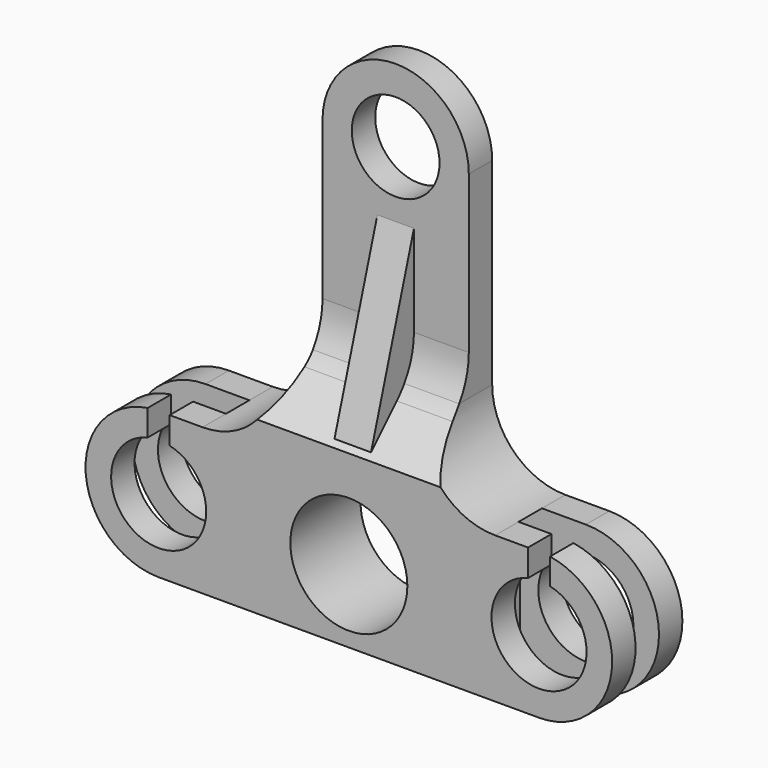
from build123d import *

# Parameters (mm, degrees)
F0_R      = 3.25
F0_R_2    = 4
F0_R_3    = 3
F1_DEPTH  = 3
F2_W      = 9.5
F2_H      = 2
F3_DEPTH  = 10.001
F5_DEPTH  = 2
F6_W      = 4
F6_H      = 5
F7_DEPTH  = 25
F8_DEPTH  = 25
F11_DEPTH = 1.25


with BuildPart() as f1:
    # F0 (on Front) → F1 (new body, symmetric)
    with BuildSketch(Plane.XZ):
        with BuildLine():
            Line((-10, 5), (-13, 5))
            ThreePointArc((-13, 5), (-18, 0), (-13, -5))
            Line((-13, -5), (13, -5))
            ThreePointArc((13, -5), (8, 0), (13, 5))
            Line((13, 5), (10, 5))
            ThreePointArc((10, 5), (6.4644660941, 6.4644660941), (5, 10))
            Line((5, 10), (5, 23.5))
            ThreePointArc((5, 23.5), (0, 28.5), (-5, 23.5))
            Line((-5, 23.5), (-5, 10))
            ThreePointArc((-5, 10), (-6.4644660941, 6.4644660941), (-10, 5))
        make_face()
        with Locations((-13, 0)):
            Circle(F0_R, mode=Mode.SUBTRACT)
        Circle(F0_R_2, mode=Mode.SUBTRACT)
        with Locations((0, 23.5)):
            Circle(F0_R_3, mode=Mode.SUBTRACT)
        with BuildLine():
            ThreePointArc((13, 5), (8, 0), (13, -5))
            ThreePointArc((13, -5), (16.5355339059, -3.5355339059), (18, 0))
            ThreePointArc((18, 0), (16.5355339059, 3.5355339059), (13, 5))
        make_face()
        with Locations((13, 0)):
            Circle(F0_R, mode=Mode.SUBTRACT)
    extrude(amount=F1_DEPTH, both=True)

    # F2 (on face) → F3 (cut, through all)
    with BuildSketch(Plane.XY.offset(5)):
        with Locations((13.25, 0)):
            Rectangle(F2_W, F2_H)
        with Locations((-13.25, 0)):
            Rectangle(F2_W, F2_H)
    extrude(amount=-F3_DEPTH, mode=Mode.SUBTRACT)

    # F4 (on face) → F5 (cut)
    with BuildSketch(Plane.XZ.offset(3)):
        with BuildLine():
            Line((-13.75, 4.9434299833), (-13.75, 3.1622776602))
            ThreePointArc((-13.75, 3.1622776602), (-13, 3.25), (-12.25, 3.1622776602))
            Line((-12.25, 3.1622776602), (-12.25, 5))
            Line((-12.25, 5), (-13, 5))
            ThreePointArc((-13, 5), (-13.3760652094, 4.985837438), (-13.75, 4.9434299833))
        make_face()
        with BuildLine():
            Line((12.25, 5), (12.25, 3.1622776602))
            ThreePointArc((12.25, 3.1622776602), (13, 3.25), (13.75, 3.1622776602))
            Line((13.75, 3.1622776602), (13.75, 4.9434299833))
            ThreePointArc((13.75, 4.9434299833), (13.3760652094, 4.985837438), (13, 5))
            Line((13, 5), (12.25, 5))
        make_face()
    extrude(amount=-F5_DEPTH, mode=Mode.SUBTRACT)

    # F6 (on face) → F7 (cut)
    with BuildSketch(Plane.YZ.offset(5)):
        with BuildLine():
            Line((0.1769726777, 10), (-3, 10))
            Line((-3, 10), (-3, 6.6771860428))
            Line((-3, 6.6771860428), (-0.4644660941, 9.2127199488))
            ThreePointArc((-0.4644660941, 9.2127199488), (-0.1237077096, 9.5900331405), (0.1769726777, 10))
        make_face()
        with BuildLine():
            Line((1, 23.5), (-3, 23.5))
            Line((-3, 23.5), (-3, 10))
            Line((-3, 10), (0.1769726777, 10))
            ThreePointArc((0.1769726777, 10), (0.7898258522, 11.3138312162), (1, 12.7482538547))
            Line((1, 12.7482538547), (1, 23.5))
        make_face()
        with Locations((-1, 26)):
            Rectangle(F6_W, F6_H)
    extrude(amount=-F7_DEPTH, mode=Mode.SUBTRACT)

    # F8 (cut): a face of the model
    f8_faces = [f1.faces().sort_by_distance(p)[0] for p in [
        (5, -1.9067294232, 8.8858021834),
    ]]
    extrude(f8_faces, amount=-F8_DEPTH, mode=Mode.SUBTRACT)

    # F10 (on offset) → F11 (join, symmetric)
    with BuildSketch(Plane.YZ):
        with BuildLine():
            ThreePointArc((0.1769726777, 10), (0.7898258522, 11.3138312162), (1, 12.7482538547))
            Line((1, 12.7482538547), (1, 19))
            Line((1, 19), (-2.6650612591, 7.0121247837))
            Line((-2.6650612591, 7.0121247837), (-0.4644660941, 9.2127199488))
            ThreePointArc((-0.4644660941, 9.2127199488), (-0.1237077096, 9.5900331405), (0.1769726777, 10))
        make_face()
    extrude(amount=F11_DEPTH, both=True)


solid = f1.part
